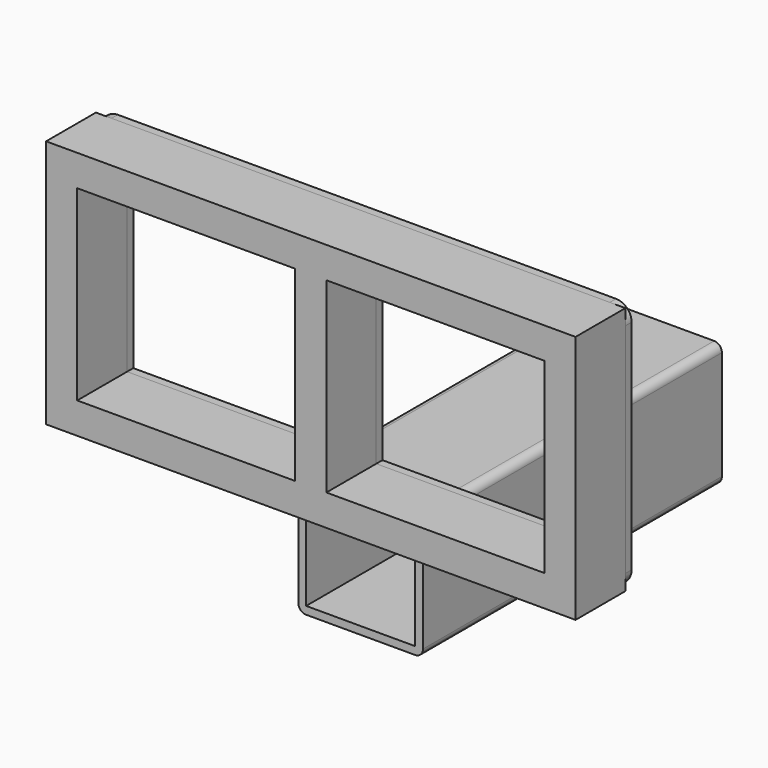
from build123d import *

# Parameters (mm, degrees)
F0_W     = 44.45
F0_H     = 44.45
F1_DEPTH = 152.4
F3_D     = 15.875
F4_W     = 88.9
F4_H     = 76.2
F5_DEPTH = 3.175
F6_D     = 4.7625
F7_R     = 6.35
F8_DEPTH = 25.4


with BuildPart() as f1:
    # F0 (on Front) → F1 (new body)
    with BuildSketch(Plane.XZ):
        with BuildLine():
            ThreePointArc((25.4, 22.225), (24.470064, 24.470064), (22.225, 25.4))
            Line((22.225, 25.4), (-22.225, 25.4))
            ThreePointArc((-22.225, 25.4), (-24.470064, 24.470064), (-25.4, 22.225))
            Line((-25.4, 22.225), (-25.4, -22.225))
            ThreePointArc((-25.4, -22.225), (-24.470064, -24.470064), (-22.225, -25.4))
            Line((-22.225, -25.4), (22.225, -25.4))
            ThreePointArc((22.225, -25.4), (24.470064, -24.470064), (25.4, -22.225))
            Line((25.4, -22.225), (25.4, 22.225))
        make_face()
        Rectangle(F0_W, F0_H, mode=Mode.SUBTRACT)
    extrude(amount=F1_DEPTH)

    # F3 (through all)
    with Locations(Plane.YZ.offset(25.4)):
        with Locations((-76.2, 0)):
            Hole(F3_D / 2)

    # F4 (on face) → F5 (join)
    with BuildSketch(Plane.XZ.offset(152.4)):
        Polygon((-22.225, 25.4), (0, 25.4), (22.225, 25.4), (107.95, 25.4), (107.95, 127), (-107.95, 127), (-107.95, 25.4), align=None)
        with Locations((-50.8, 76.2)):
            Rectangle(F4_W, F4_H, mode=Mode.SUBTRACT)
        with Locations((50.8, 76.2)):
            Rectangle(F4_W, F4_H, mode=Mode.SUBTRACT)
    extrude(amount=-F5_DEPTH)

    # F6 (through all)
    with Locations(Plane.XZ.offset(152.4)):
        with Locations((-101.6, 31.75), (101.6, 31.75)):
            Hole(F6_D / 2)

    # F7
    f7_edges = [f1.edges().sort_by_distance(p)[0] for p in [
        (107.95, -150.8125, 25.4),
        (107.95, -150.8125, 127),
        (-107.95, -150.8125, 127),
        (-107.95, -150.8125, 25.4),
    ]]
    fillet(f7_edges, radius=F7_R)


with BuildPart() as f8:
    # F4 (on face) → F8 (new body)
    with BuildSketch(Plane.XZ.offset(152.4)):
        Polygon((-22.225, 25.4), (0, 25.4), (22.225, 25.4), (107.95, 25.4), (107.95, 127), (-107.95, 127), (-107.95, 25.4), align=None)
        with Locations((-50.8, 76.2)):
            Rectangle(F4_W, F4_H, mode=Mode.SUBTRACT)
        with Locations((50.8, 76.2)):
            Rectangle(F4_W, F4_H, mode=Mode.SUBTRACT)
    extrude(amount=F8_DEPTH)


solid = Compound([f1.part, f8.part])
